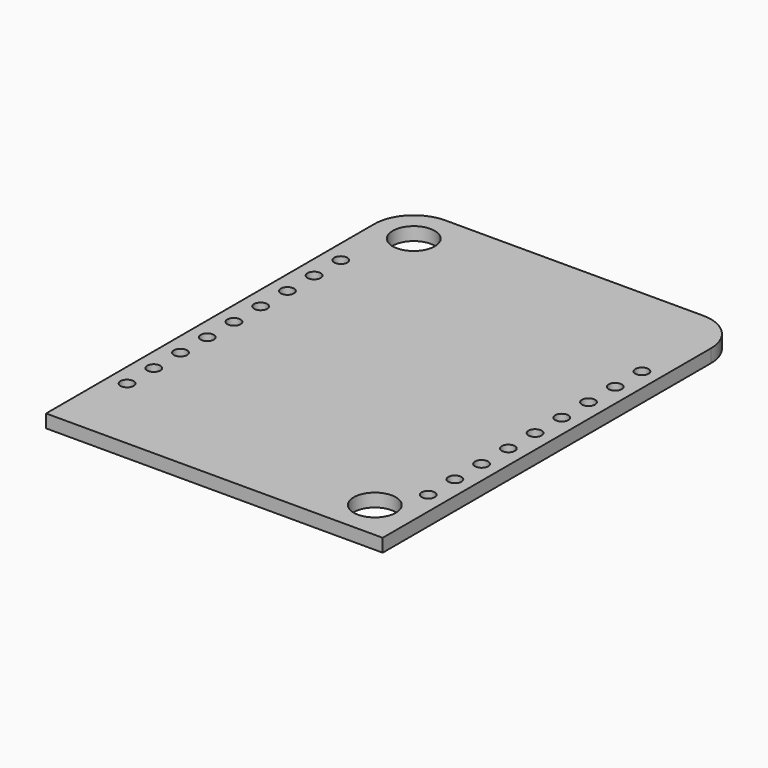
from build123d import *

# Parameters (mm, degrees)
SKETCH032_R                             = 1.6
PAD017_DEPTH                            = 1
SKETCH038_R                             = 0.5
POCKET007_DEPTH                         = 86.464442
POCKET007_DEPTH_BACK                    = 85.464442
SKETCH038_LINEARPATTERN002_2_R          = 0.5
POCKET007_LINEARPATTERN002_2_DEPTH      = 86.464442
POCKET007_LINEARPATTERN002_2_DEPTH_BACK = 85.464442
SKETCH038_LINEARPATTERN002_3_R          = 0.5
POCKET007_LINEARPATTERN002_3_DEPTH      = 86.464442
POCKET007_LINEARPATTERN002_3_DEPTH_BACK = 85.464442
SKETCH038_LINEARPATTERN002_4_R          = 0.5
POCKET007_LINEARPATTERN002_4_DEPTH      = 86.464442
POCKET007_LINEARPATTERN002_4_DEPTH_BACK = 85.464442
SKETCH038_LINEARPATTERN002_5_R          = 0.5
POCKET007_LINEARPATTERN002_5_DEPTH      = 86.464442
POCKET007_LINEARPATTERN002_5_DEPTH_BACK = 85.464442
SKETCH038_LINEARPATTERN002_6_R          = 0.5
POCKET007_LINEARPATTERN002_6_DEPTH      = 86.464442
POCKET007_LINEARPATTERN002_6_DEPTH_BACK = 85.464442
SKETCH038_LINEARPATTERN002_7_R          = 0.5
POCKET007_LINEARPATTERN002_7_DEPTH      = 86.464442
POCKET007_LINEARPATTERN002_7_DEPTH_BACK = 85.464442
SKETCH038_LINEARPATTERN002_8_R          = 0.5
POCKET007_LINEARPATTERN002_8_DEPTH      = 86.464442
POCKET007_LINEARPATTERN002_8_DEPTH_BACK = 85.464442
SKETCH038_LINEARPATTERN002_9_R          = 0.5
POCKET007_LINEARPATTERN002_9_DEPTH      = 86.464442
POCKET007_LINEARPATTERN002_9_DEPTH_BACK = 85.464442


with BuildPart() as part:
    # Sketch032 → Pad017 (new body)
    with BuildSketch(Plane.XY):
        with BuildLine():
            Line((9.8, 17.1), (-9.8, 17.1))
            ThreePointArc((-9.8, 17.1), (-11.92132, 16.22132), (-12.8, 14.1))
            Line((-12.8, 14.1), (-12.8, -17.1))
            Line((-12.8, -17.1), (12.8, -17.1))
            Line((12.8, -17.1), (12.8, 14.1))
            ThreePointArc((12.8, 14.1), (11.92132, 16.22132), (9.8, 17.1))
        make_face()
        with Locations((-9.8, 14.1)):
            Circle(SKETCH032_R, mode=Mode.SUBTRACT)
        with Locations((9.8, -14.1)):
            Circle(SKETCH032_R, mode=Mode.SUBTRACT)
    extrude(amount=-PAD017_DEPTH)

    # Sketch038 → Pocket007 (cut, two sides)
    with BuildSketch(Plane.XY) as pocket007_sk:
        with Locations((11.45, -11.09)):
            Circle(SKETCH038_R)
    pocket007 = extrude(amount=-POCKET007_DEPTH, mode=Mode.SUBTRACT) + extrude(pocket007_sk.sketch, amount=POCKET007_DEPTH_BACK, mode=Mode.SUBTRACT)

    # Sketch038 LinearPattern002 2 → Pocket007 LinearPattern002 2 (cut, two sides)
    with BuildSketch(Plane(origin=(0, 2.54, 0), x_dir=(1, 0, 0), z_dir=(0, 0, 1))) as pocket007_linearpattern002_2_sk:
        with Locations((11.45, -11.09)):
            Circle(SKETCH038_LINEARPATTERN002_2_R)
    pocket007_linearpattern002_2 = extrude(amount=-POCKET007_LINEARPATTERN002_2_DEPTH, mode=Mode.SUBTRACT) + extrude(pocket007_linearpattern002_2_sk.sketch, amount=POCKET007_LINEARPATTERN002_2_DEPTH_BACK, mode=Mode.SUBTRACT)

    # Sketch038 LinearPattern002 3 → Pocket007 LinearPattern002 3 (cut, two sides)
    with BuildSketch(Plane(origin=(0, 5.08, 0), x_dir=(1, 0, 0), z_dir=(0, 0, 1))) as pocket007_linearpattern002_3_sk:
        with Locations((11.45, -11.09)):
            Circle(SKETCH038_LINEARPATTERN002_3_R)
    pocket007_linearpattern002_3 = extrude(amount=-POCKET007_LINEARPATTERN002_3_DEPTH, mode=Mode.SUBTRACT) + extrude(pocket007_linearpattern002_3_sk.sketch, amount=POCKET007_LINEARPATTERN002_3_DEPTH_BACK, mode=Mode.SUBTRACT)

    # Sketch038 LinearPattern002 4 → Pocket007 LinearPattern002 4 (cut, two sides)
    with BuildSketch(Plane(origin=(0, 7.62, 0), x_dir=(1, 0, 0), z_dir=(0, 0, 1))) as pocket007_linearpattern002_4_sk:
        with Locations((11.45, -11.09)):
            Circle(SKETCH038_LINEARPATTERN002_4_R)
    pocket007_linearpattern002_4 = extrude(amount=-POCKET007_LINEARPATTERN002_4_DEPTH, mode=Mode.SUBTRACT) + extrude(pocket007_linearpattern002_4_sk.sketch, amount=POCKET007_LINEARPATTERN002_4_DEPTH_BACK, mode=Mode.SUBTRACT)

    # Sketch038 LinearPattern002 5 → Pocket007 LinearPattern002 5 (cut, two sides)
    with BuildSketch(Plane(origin=(0, 10.16, 0), x_dir=(1, 0, 0), z_dir=(0, 0, 1))) as pocket007_linearpattern002_5_sk:
        with Locations((11.45, -11.09)):
            Circle(SKETCH038_LINEARPATTERN002_5_R)
    pocket007_linearpattern002_5 = extrude(amount=-POCKET007_LINEARPATTERN002_5_DEPTH, mode=Mode.SUBTRACT) + extrude(pocket007_linearpattern002_5_sk.sketch, amount=POCKET007_LINEARPATTERN002_5_DEPTH_BACK, mode=Mode.SUBTRACT)

    # Sketch038 LinearPattern002 6 → Pocket007 LinearPattern002 6 (cut, two sides)
    with BuildSketch(Plane(origin=(0, 12.7, 0), x_dir=(1, 0, 0), z_dir=(0, 0, 1))) as pocket007_linearpattern002_6_sk:
        with Locations((11.45, -11.09)):
            Circle(SKETCH038_LINEARPATTERN002_6_R)
    pocket007_linearpattern002_6 = extrude(amount=-POCKET007_LINEARPATTERN002_6_DEPTH, mode=Mode.SUBTRACT) + extrude(pocket007_linearpattern002_6_sk.sketch, amount=POCKET007_LINEARPATTERN002_6_DEPTH_BACK, mode=Mode.SUBTRACT)

    # Sketch038 LinearPattern002 7 → Pocket007 LinearPattern002 7 (cut, two sides)
    with BuildSketch(Plane(origin=(0, 15.24, 0), x_dir=(1, 0, 0), z_dir=(0, 0, 1))) as pocket007_linearpattern002_7_sk:
        with Locations((11.45, -11.09)):
            Circle(SKETCH038_LINEARPATTERN002_7_R)
    pocket007_linearpattern002_7 = extrude(amount=-POCKET007_LINEARPATTERN002_7_DEPTH, mode=Mode.SUBTRACT) + extrude(pocket007_linearpattern002_7_sk.sketch, amount=POCKET007_LINEARPATTERN002_7_DEPTH_BACK, mode=Mode.SUBTRACT)

    # Sketch038 LinearPattern002 8 → Pocket007 LinearPattern002 8 (cut, two sides)
    with BuildSketch(Plane(origin=(0, 17.78, 0), x_dir=(1, 0, 0), z_dir=(0, 0, 1))) as pocket007_linearpattern002_8_sk:
        with Locations((11.45, -11.09)):
            Circle(SKETCH038_LINEARPATTERN002_8_R)
    pocket007_linearpattern002_8 = extrude(amount=-POCKET007_LINEARPATTERN002_8_DEPTH, mode=Mode.SUBTRACT) + extrude(pocket007_linearpattern002_8_sk.sketch, amount=POCKET007_LINEARPATTERN002_8_DEPTH_BACK, mode=Mode.SUBTRACT)

    # Sketch038 LinearPattern002 9 → Pocket007 LinearPattern002 9 (cut, two sides)
    with BuildSketch(Plane(origin=(0, 20.32, 0), x_dir=(1, 0, 0), z_dir=(0, 0, 1))) as pocket007_linearpattern002_9_sk:
        with Locations((11.45, -11.09)):
            Circle(SKETCH038_LINEARPATTERN002_9_R)
    pocket007_linearpattern002_9 = extrude(amount=-POCKET007_LINEARPATTERN002_9_DEPTH, mode=Mode.SUBTRACT) + extrude(pocket007_linearpattern002_9_sk.sketch, amount=POCKET007_LINEARPATTERN002_9_DEPTH_BACK, mode=Mode.SUBTRACT)

    # Mirrored009: Pocket007, Pocket007 LinearPattern002 2, Pocket007 LinearPattern002 3, Pocket007 LinearPattern002 4, Pocket007 LinearPattern002 5, Pocket007 LinearPattern002 6, Pocket007 LinearPattern002 7, Pocket007 LinearPattern002 8, Pocket007 LinearPattern002 9 across YZ
    add(pocket007.mirror(Plane.YZ), mode=Mode.SUBTRACT)
    add(pocket007_linearpattern002_2.mirror(Plane.YZ), mode=Mode.SUBTRACT)
    add(pocket007_linearpattern002_3.mirror(Plane.YZ), mode=Mode.SUBTRACT)
    add(pocket007_linearpattern002_4.mirror(Plane.YZ), mode=Mode.SUBTRACT)
    add(pocket007_linearpattern002_5.mirror(Plane.YZ), mode=Mode.SUBTRACT)
    add(pocket007_linearpattern002_6.mirror(Plane.YZ), mode=Mode.SUBTRACT)
    add(pocket007_linearpattern002_7.mirror(Plane.YZ), mode=Mode.SUBTRACT)
    add(pocket007_linearpattern002_8.mirror(Plane.YZ), mode=Mode.SUBTRACT)
    add(pocket007_linearpattern002_9.mirror(Plane.YZ), mode=Mode.SUBTRACT)


with BuildPart() as part_1:
    # Body020 placement: moved
    add(part.part.moved(Location((0, 17.1, 0))))


solid = part_1.part
